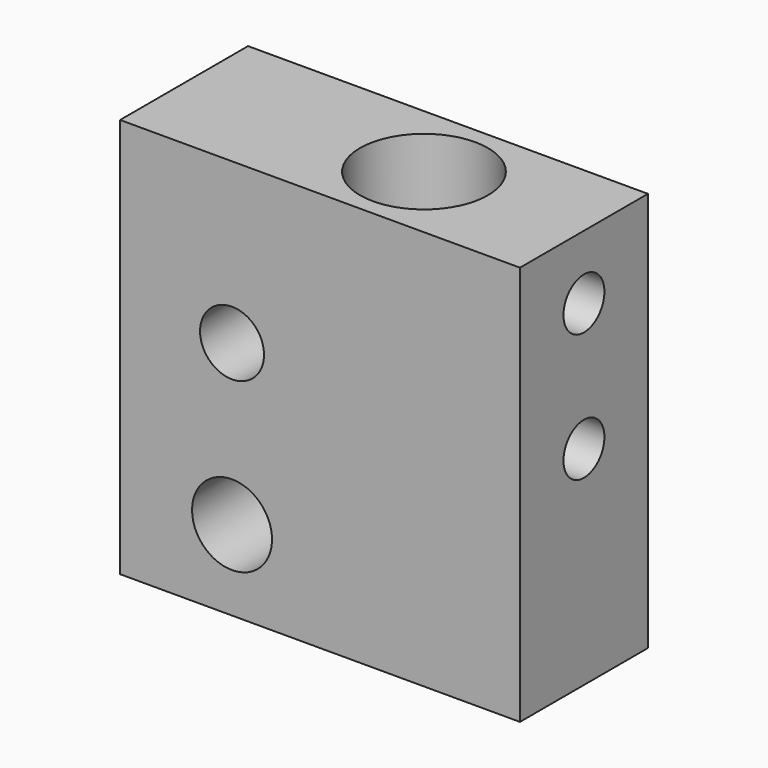
from build123d import *

# Parameters (mm, degrees)
F0_W     = 25
F0_H     = 25
F1_DEPTH = 5
F3_D     = 4
F4_D     = 5
F6_D     = 8
F6_DEPTH = 16
F6_TIP   = 2.4034424761
F8_D     = 3.2
F8_DEPTH = 10
F8_TIP   = 0.9613769904


with BuildPart() as f1:
    # F0 (on Front) → F1 (new body, symmetric)
    with BuildSketch(Plane.XZ):
        Rectangle(F0_W, F0_H)
    extrude(amount=F1_DEPTH, both=True)

    # F3 (through all)
    with Locations(Plane.XZ.offset(5)):
        with Locations((-5.5, 2.5)):
            Hole(F3_D / 2)

    # F4 (through all)
    with Locations(Plane.XZ.offset(5)):
        with Locations((-5.5, -7.5)):
            Hole(F4_D / 2)

    # F6
    with Locations(Plane.XY.offset(12.5)):
        with Locations((2.5, 0)):
            Hole(F6_D / 2, depth=F6_DEPTH)
            with Locations((0, 0, -(F6_DEPTH + F6_TIP / 2))):  # 118° drill point
                Cone(0, F6_D / 2, F6_TIP, mode=Mode.SUBTRACT)

    # F8
    with Locations(Plane.YZ.offset(12.5)):
        with Locations((0, 8.5), (0, 0.5)):
            Hole(F8_D / 2, depth=F8_DEPTH)
            with Locations((0, 0, -(F8_DEPTH + F8_TIP / 2))):  # 118° drill point
                Cone(0, F8_D / 2, F8_TIP, mode=Mode.SUBTRACT)


solid = f1.part
